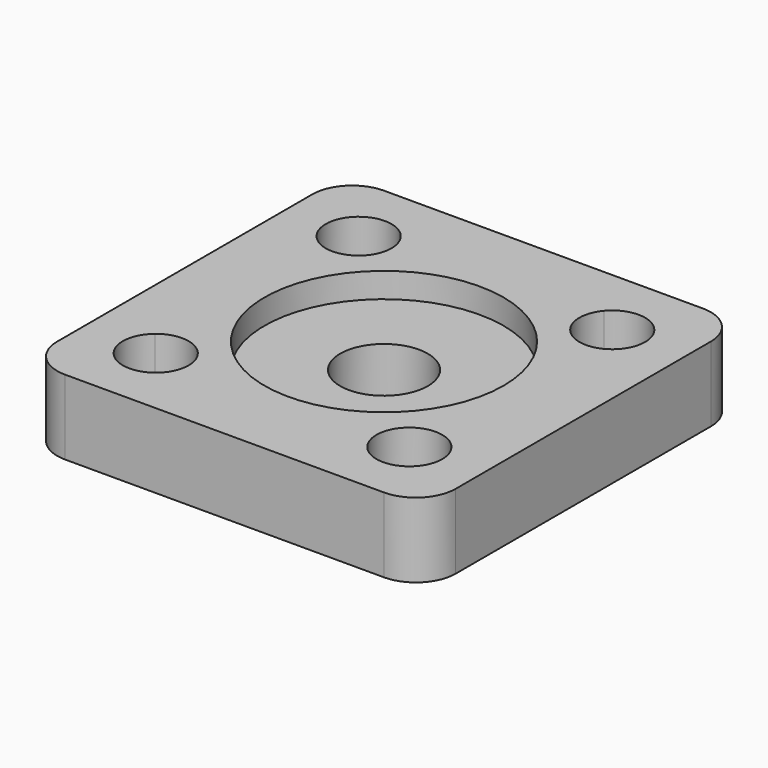
from build123d import *

# Parameters (mm, degrees)
F0_W     = 50.8
F0_H     = 50.8
F1_DEPTH = 9.525
F2_DEPTH = 3.175
F3_R     = 5.08


with BuildPart() as f1:
    # F0 (on Top) → F1 (new body)
    with BuildSketch(Plane.XY):
        Rectangle(F0_W, F0_H)
        with BuildLine():
            ThreePointArc((12.941801, 18.843816), (15.972171, 20.351047), (19.127946, 19.127946))
            ThreePointArc((19.127946, 19.127946), (20.03644, 17.768287), (20.355461, 16.164461))
            ThreePointArc((20.355461, 16.164461), (19.958776, 14.384671), (18.843816, 12.941801))
            ThreePointArc((18.843816, 12.941801), (21.832879, 6.775322), (22.86, 0))
            ThreePointArc((22.86, 0), (21.832879, -6.775322), (18.843816, -12.941801))
            ThreePointArc((18.843816, -12.941801), (19.958776, -14.384671), (20.355461, -16.164461))
            ThreePointArc((20.355461, -16.164461), (17.588945, -20.105949), (12.941801, -18.843816))
            ThreePointArc((12.941801, -18.843816), (0, -22.86), (-12.941801, -18.843816))
            ThreePointArc((-12.941801, -18.843816), (-19.127946, -19.127946), (-18.843816, -12.941801))
            ThreePointArc((-18.843816, -12.941801), (-22.86, 0), (-18.843816, 12.941801))
            ThreePointArc((-18.843816, 12.941801), (-19.127946, 19.127946), (-12.941801, 18.843816))
            ThreePointArc((-12.941801, 18.843816), (0, 22.86), (12.941801, 18.843816))
        make_face(mode=Mode.SUBTRACT)
        with BuildLine():
            ThreePointArc((13.200976, 13.200976), (11.977875, 15.972171), (12.941801, 18.843816))
            ThreePointArc((12.941801, 18.843816), (0, 22.86), (-12.941801, 18.843816))
            ThreePointArc((-12.941801, 18.843816), (-12.222973, 17.588945), (-11.973461, 16.164461))
            ThreePointArc((-11.973461, 16.164461), (-14.384671, 12.370146), (-18.843816, 12.941801))
            ThreePointArc((-18.843816, 12.941801), (-22.86, 0), (-18.843816, -12.941801))
            ThreePointArc((-18.843816, -12.941801), (-14.384671, -12.370146), (-11.973461, -16.164461))
            ThreePointArc((-11.973461, -16.164461), (-12.222973, -17.588945), (-12.941801, -18.843816))
            ThreePointArc((-12.941801, -18.843816), (0, -22.86), (12.941801, -18.843816))
            ThreePointArc((12.941801, -18.843816), (13.200976, -13.200976), (18.843816, -12.941801))
            ThreePointArc((18.843816, -12.941801), (21.832879, -6.775322), (22.86, 0))
            ThreePointArc((22.86, 0), (21.832879, 6.775322), (18.843816, 12.941801))
            ThreePointArc((18.843816, 12.941801), (15.972171, 11.977875), (13.200976, 13.200976))
        make_face()
        with BuildLine():
            ThreePointArc((15.24, 0), (-14.079924, -5.832096), (10.776307, 10.776307))
            ThreePointArc((10.776307, 10.776307), (14.079924, 5.832096), (15.24, 0))
        make_face(mode=Mode.SUBTRACT)
        with BuildLine():
            ThreePointArc((15.24, 0), (14.079924, 5.832096), (10.776307, 10.776307))
            ThreePointArc((10.776307, 10.776307), (-14.079924, -5.832096), (15.24, 0))
        make_face()
        with BuildLine():
            ThreePointArc((5.588, 0), (-5.162639, -2.138435), (3.951313, 3.951313))
            ThreePointArc((3.951313, 3.951313), (5.162639, 2.138435), (5.588, 0))
        make_face(mode=Mode.SUBTRACT)
    extrude(amount=-F1_DEPTH)

    # F0 (on Top) → F2 (cut)
    with BuildSketch(Plane.XY):
        with BuildLine():
            ThreePointArc((15.24, 0), (14.079924, 5.832096), (10.776307, 10.776307))
            ThreePointArc((10.776307, 10.776307), (-14.079924, -5.832096), (15.24, 0))
        make_face()
        with BuildLine():
            ThreePointArc((5.588, 0), (-5.162639, -2.138435), (3.951313, 3.951313))
            ThreePointArc((3.951313, 3.951313), (5.162639, 2.138435), (5.588, 0))
        make_face(mode=Mode.SUBTRACT)
    extrude(amount=-F2_DEPTH, mode=Mode.SUBTRACT)

    # F3
    f3_edges = [f1.edges().sort_by_distance(p)[0] for p in [
        (-25.4, -25.4, -4.7625),
        (25.4, -25.4, -4.7625),
        (25.4, 25.4, -4.7625),
        (-25.4, 25.4, -4.7625),
    ]]
    fillet(f3_edges, radius=F3_R)


solid = f1.part
